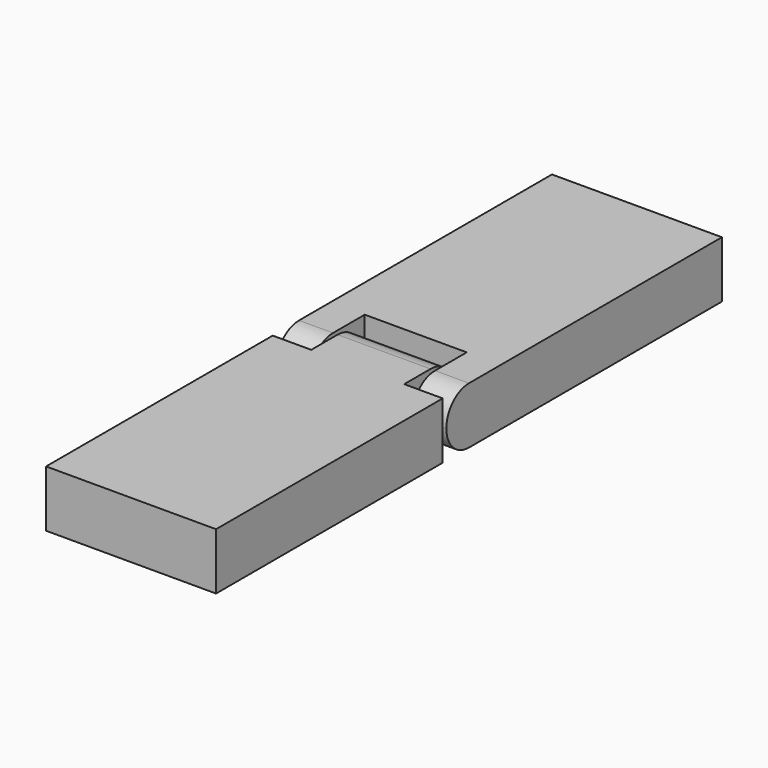
from build123d import *

# Parameters (mm, degrees)
F0_W      = 15
F0_H      = 25
F1_DEPTH  = 5
F2_W      = 9
F2_H      = 5
F3_DEPTH  = 6
F5_DEPTH  = 15
F4_R      = 1.25
F6_DEPTH  = 15
F7_R      = 1.65
F8_DEPTH  = 9
F9_DEPTH  = 0.4
F10_DEPTH = 0.4
F11_DEPTH = 0.4
F12_W     = 15
F12_H     = 5
F13_DEPTH = 25
F14_DEPTH = 5.4


with BuildPart() as f1:
    # F0 (on Top) → F1 (new body)
    with BuildSketch(Plane.XY):
        with Locations((0, 12.5)):
            Rectangle(F0_W, F0_H)
    extrude(amount=F1_DEPTH)

    # F2 (on face) → F3 (cut)
    with BuildSketch(Plane.XZ):
        with Locations((0, 2.5)):
            Rectangle(F2_W, F2_H)
    extrude(amount=-F3_DEPTH, mode=Mode.SUBTRACT)

    # F4 (on face) → F5 (cut, through all)
    with BuildSketch(Plane(origin=(-7.5, 0, 0), x_dir=(0, -1, 0), z_dir=(-1, 0, 0))):
        with BuildLine():
            ThreePointArc((-2.5, 5), (-0.732233047, 4.267766953), (0, 2.5))
            Line((0, 2.5), (0, 5))
            Line((0, 5), (-2.5, 5))
        make_face()
        with BuildLine():
            Line((0, 0), (0, 2.5))
            ThreePointArc((0, 2.5), (-0.732233047, 0.732233047), (-2.5, 0))
            Line((-2.5, 0), (0, 0))
        make_face()
    extrude(amount=-F5_DEPTH, mode=Mode.SUBTRACT)

    # F4 (on face) → F6 (join, through all)
    with BuildSketch(Plane(origin=(-7.5, 0, 0), x_dir=(0, -1, 0), z_dir=(-1, 0, 0))):
        with Locations((-2.5, 2.5)):
            Circle(F4_R)
    extrude(amount=-F6_DEPTH)

    # F14 (add): a face of the model
    f14_faces = [f1.faces().sort_by_distance(p)[0] for p in [
        (0, 25, 2.5),
    ]]
    extrude(f14_faces, amount=F14_DEPTH)


with BuildPart() as f8:
    # F7 (on face) → F8 (new body, through all)
    with BuildSketch(Plane(origin=(4.5, 0, 0), x_dir=(0, -1, 0), z_dir=(-1, 0, 0))):
        with BuildLine():
            ThreePointArc((0, 2.5), (-0.732233047, 4.267766953), (-2.5, 5))
            ThreePointArc((-2.5, 5), (-4.267766953, 4.267766953), (-5, 2.5))
            ThreePointArc((-5, 2.5), (-4.267766953, 0.732233047), (-2.5, 0))
            ThreePointArc((-2.5, 0), (-0.732233047, 0.732233047), (0, 2.5))
        make_face()
        with Locations((-2.5, 2.5)):
            Circle(F7_R, mode=Mode.SUBTRACT)
        with BuildLine():
            Line((0, 2.5), (0, 5))
            Line((0, 5), (-2.5, 5))
            ThreePointArc((-2.5, 5), (-0.732233047, 4.267766953), (0, 2.5))
        make_face()
        with BuildLine():
            Line((0, 0), (0, 2.5))
            ThreePointArc((0, 2.5), (-0.732233047, 0.732233047), (-2.5, 0))
            Line((-2.5, 0), (0, 0))
        make_face()
    extrude(amount=F8_DEPTH)

    # F9 (cut): a face of the model
    f9_faces = [f8.faces().sort_by_distance(p)[0] for p in [
        (-4.5, 4.9292893219, 2.5),
    ]]
    extrude(f9_faces, amount=-F9_DEPTH, mode=Mode.SUBTRACT)

    # F10 (cut): a face of the model
    f10_faces = [f8.faces().sort_by_distance(p)[0] for p in [
        (4.5, 4.9292893219, 2.5),
    ]]
    extrude(f10_faces, amount=-F10_DEPTH, mode=Mode.SUBTRACT)

    # F11 (add): a face of the model
    f11_faces = [f8.faces().sort_by_distance(p)[0] for p in [
        (0, 0, 2.5),
    ]]
    extrude(f11_faces, amount=F11_DEPTH)

    # F12 (on face) → F13 (join)
    with BuildSketch(Plane.XZ.offset(0.4)):
        with Locations((0, 2.5)):
            Rectangle(F12_W, F12_H)
    extrude(amount=F13_DEPTH)


solid = Compound([f1.part, f8.part])
